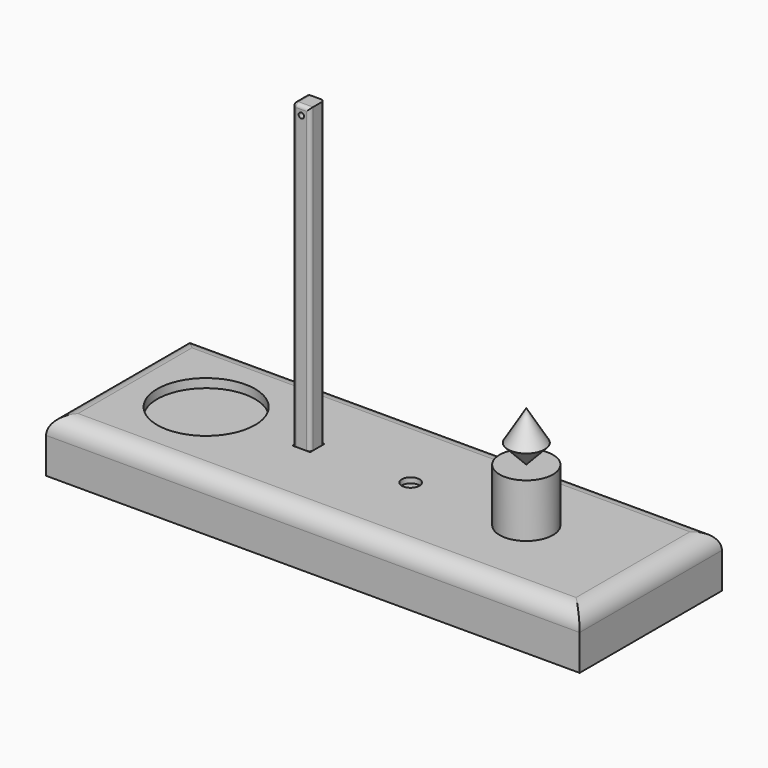
from build123d import *

# Parameters (mm, degrees)
F0_W      = 762
F0_H      = 76.2
F1_DEPTH  = 254
F4_R      = 38.1
F5_DEPTH  = 15.24
F2_R      = 38.1
F6_DEPTH  = 76.2
F3_R      = 69.85
F7_DEPTH  = 12.7
F8_DEPTH  = 12.7
F9_R      = 12.7
F10_DEPTH = 7.62
F15_W     = 25.4
F15_H     = 25.4
F16_DEPTH = 7.62
F17_DEPTH = 431.8
F18_R     = 3.81
F19_DEPTH = 12.7
F20_R     = 25.4
F21_R     = 5.08


with BuildPart() as f1:
    # F0 (on Front) → F1 (new body)
    with BuildSketch(Plane.XZ):
        with Locations((381, 38.1)):
            Rectangle(F0_W, F0_H)
    extrude(amount=F1_DEPTH)

    # F4 (on face) → F5 (join)
    with BuildSketch(Plane(origin=(0, 0, 0), x_dir=(1, 0, 0), z_dir=(0, 0, -1))):
        with Locations((76.2, 185.42)):
            Circle(F4_R)
        with Locations((685.8, 185.42)):
            Circle(F4_R)
        with Locations((685.8, 68.58)):
            Circle(F4_R)
        with Locations((76.2, 68.58)):
            Circle(F4_R)
    extrude(amount=F5_DEPTH)

    # F3 (on face) → F7 (cut)
    with BuildSketch(Plane.XY.offset(76.2)):
        with Locations((127, -127)):
            Circle(F3_R)
    extrude(amount=-F7_DEPTH, mode=Mode.SUBTRACT)

    # F2 (on face) → F8 (cut)
    with BuildSketch(Plane.XY.offset(76.2)):
        with Locations((584.2, -127)):
            Circle(F2_R)
    extrude(amount=-F8_DEPTH, mode=Mode.SUBTRACT)

    # F9 (on face) → F10 (cut)
    with BuildSketch(Plane.XY.offset(76.2)):
        with Locations((419.1, -127)):
            Circle(F9_R)
    extrude(amount=-F10_DEPTH, mode=Mode.SUBTRACT)

    # F15 (on face) → F16 (cut)
    with BuildSketch(Plane.XY.offset(76.2)):
        with Locations((273.05, -127)):
            Rectangle(F15_W, F15_H)
    extrude(amount=-F16_DEPTH, mode=Mode.SUBTRACT)

    # F20
    f20_edges = [f1.edges().sort_by_distance(p)[0] for p in [
        (381, -254, 76.2),
        (762, -127, 76.2),
        (381, 0, 76.2),
        (0, -127, 76.2),
    ]]
    fillet(f20_edges, radius=F20_R)


with BuildPart() as f6:
    # F2 (on face) → F6 (new body)
    with BuildSketch(Plane.XY.offset(76.2)):
        with Locations((584.2, -127)):
            Circle(F2_R)
    extrude(amount=F6_DEPTH)


with BuildPart() as f14:
    # F13 (on plane+point) → F14 (revolve)
    with BuildSketch(Plane.XZ.offset(127)):
        Polygon((584.2, 223.52), (584.2, 152.4), (610.4413317831, 180.0225), align=None)
    revolve(axis=Axis((584.2, -127, 187.96), (0, 0, 1)))


with BuildPart() as f17:
    # F15 (on face) → F17 (new body)
    with BuildSketch(Plane.XY.offset(76.2)):
        with Locations((273.05, -127)):
            Rectangle(F15_W, F15_H)
    extrude(amount=F17_DEPTH)

    # F18 (on plane+point) → F19 (cut, symmetric)
    with BuildSketch(Plane.XZ.offset(127)):
        with Locations((273.05, 495.3)):
            Circle(F18_R)
    extrude(amount=F19_DEPTH, both=True, mode=Mode.SUBTRACT)

    # F21
    f21_edges = [f17.edges().sort_by_distance(p)[0] for p in [
        (285.75, -139.7, 292.1),
        (273.05, -139.7, 508),
        (285.75, -114.3, 292.1),
        (260.35, -127, 508),
        (260.35, -139.7, 292.1),
        (260.35, -114.3, 292.1),
    ]]
    fillet(f21_edges, radius=F21_R)


solid = Compound([f1.part, f6.part, f14.part, f17.part])
